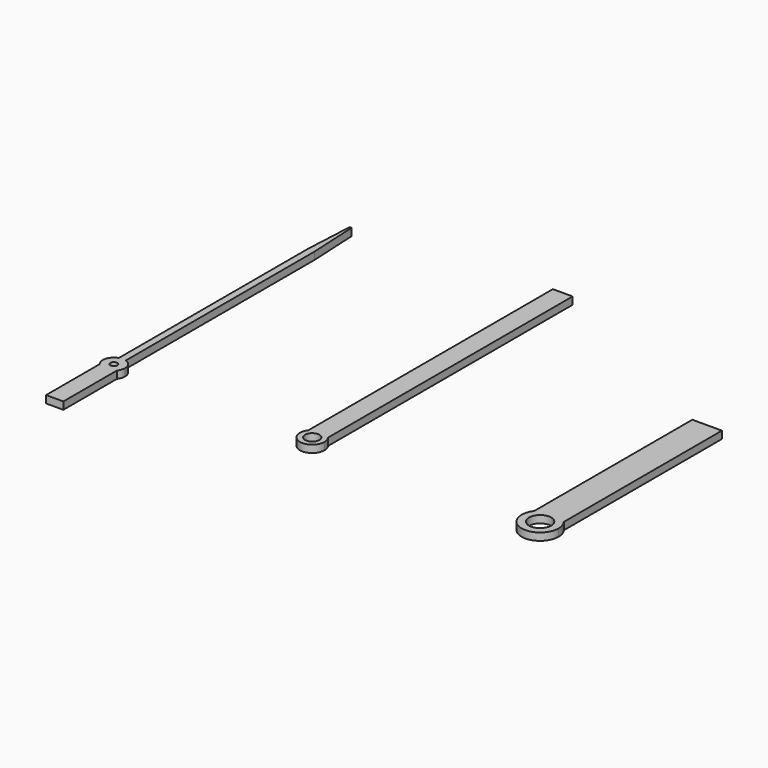
from build123d import *

# Parameters (mm, degrees)
F1_DEPTH = 3
F0_R     = 2.9
F0_R_2   = 4.5
F2_SIZE2 = 20
F2_SIZE  = 1


with BuildPart() as f1:
    # F0 (on Top) → F1 (new body)
    with BuildSketch(Plane.XY):
        with BuildLine():
            Line((-81.8503187537, 120), (-81.8503187537, 4.2766809561))
            ThreePointArc((-81.8503187537, 4.2766809561), (-80.4503187537, 4.5), (-79.0503187537, 4.2766809561))
            Line((-79.0503187537, 4.2766809561), (-79.0503187537, 120))
            Line((-79.0503187537, 120), (-81.8503187537, 120))
        make_face()
        with BuildLine():
            ThreePointArc((-76.9503187537, -2.8284271247), (-80.4503187537, -4.5), (-83.9503187537, -2.8284271247))
            Line((-83.9503187537, -2.8284271247), (-83.9503187537, -30))
            Line((-83.9503187537, -30), (-76.9503187537, -30))
            Line((-76.9503187537, -30), (-76.9503187537, -2.8284271247))
        make_face()
        with BuildLine():
            ThreePointArc((-76.9503187537, 0), (-80.4503187537, -3.5), (-83.9503187537, 0))
            Line((-83.9503187537, 0), (-83.9503187537, -2.8284271247))
            ThreePointArc((-83.9503187537, -2.8284271247), (-80.4503187537, -4.5), (-76.9503187537, -2.8284271247))
            Line((-76.9503187537, -2.8284271247), (-76.9503187537, 0))
        make_face()
        with BuildLine():
            Line((-79.0503187537, 4.2766809561), (-79.0503187537, 3.2078029865))
            ThreePointArc((-79.0503187537, 3.2078029865), (-77.5220086609, 1.9170289513), (-76.9503187537, 0))
            Line((-76.9503187537, 0), (-76.9503187537, -2.8284271247))
            ThreePointArc((-76.9503187537, -2.8284271247), (-76.2076780666, -1.5), (-75.9503187537, 0))
            ThreePointArc((-75.9503187537, 0), (-76.8068314133, 2.6410225292), (-79.0503187537, 4.2766809561))
        make_face()
        with BuildLine():
            ThreePointArc((-79.0503187537, 0), (-80.4503187537, -1.4), (-81.8503187537, 0))
            Line((-81.8503187537, 0), (-83.9503187537, 0))
            ThreePointArc((-83.9503187537, 0), (-80.4503187537, -3.5), (-76.9503187537, 0))
            Line((-76.9503187537, 0), (-79.0503187537, 0))
        make_face()
        with BuildLine():
            ThreePointArc((-83.9503187537, 0), (-83.3786288466, 1.9170289513), (-81.8503187537, 3.2078029865))
            Line((-81.8503187537, 3.2078029865), (-81.8503187537, 4.2766809561))
            ThreePointArc((-81.8503187537, 4.2766809561), (-84.7657724043, 1.2754841394), (-83.9503187537, -2.8284271247))
            Line((-83.9503187537, -2.8284271247), (-83.9503187537, 0))
        make_face()
        with BuildLine():
            Line((-81.8503187537, 4.2766809561), (-81.8503187537, 3.2078029865))
            ThreePointArc((-81.8503187537, 3.2078029865), (-80.4503187537, 3.5), (-79.0503187537, 3.2078029865))
            Line((-79.0503187537, 3.2078029865), (-79.0503187537, 4.2766809561))
            ThreePointArc((-79.0503187537, 4.2766809561), (-80.4503187537, 4.5), (-81.8503187537, 4.2766809561))
        make_face()
        with BuildLine():
            Line((-81.8503187537, 3.2078029865), (-81.8503187537, 0))
            ThreePointArc((-81.8503187537, 0), (-80.4503187537, 1.4), (-79.0503187537, 0))
            Line((-79.0503187537, 0), (-79.0503187537, 3.2078029865))
            ThreePointArc((-79.0503187537, 3.2078029865), (-80.4503187537, 3.5), (-81.8503187537, 3.2078029865))
        make_face()
        with BuildLine():
            Line((-79.0503187537, 3.2078029865), (-79.0503187537, 0))
            Line((-79.0503187537, 0), (-76.9503187537, 0))
            ThreePointArc((-76.9503187537, 0), (-77.5220086609, 1.9170289513), (-79.0503187537, 3.2078029865))
        make_face()
        with BuildLine():
            Line((-83.9503187537, 0), (-81.8503187537, 0))
            Line((-81.8503187537, 0), (-81.8503187537, 3.2078029865))
            ThreePointArc((-81.8503187537, 3.2078029865), (-83.3786288466, 1.9170289513), (-83.9503187537, 0))
        make_face()
    extrude(amount=F1_DEPTH)

    # F2
    f2_edges = [f1.edges().sort_by_distance(p)[0] for p in [
        (-79.050319, 120, 1.5),
        (-81.850319, 120, 1.5),
    ]]
    f2_side = f1.faces().sort_by_distance((-80.450319, 120, 1.5))[0]
    chamfer(f2_edges, length=F2_SIZE, length2=F2_SIZE2, reference=f2_side)


with BuildPart() as f1b:
    # F0 (on Top) → F1, piece 2 (new body)
    with BuildSketch(Plane.XY):
        with BuildLine():
            Line((4, 3), (4, 0))
            ThreePointArc((4, 0), (0, -4), (-4, 0))
            Line((-4, 0), (-4, 3))
            ThreePointArc((-4, 3), (-1.5811388301, -4.7434164903), (5, 0))
            ThreePointArc((5, 0), (4.7434164903, 1.5811388301), (4, 3))
        make_face()
        with BuildLine():
            ThreePointArc((-4, 0), (0, -4), (4, 0))
            ThreePointArc((4, 0), (0, 4), (-4, 0))
        make_face()
        Circle(F0_R, mode=Mode.SUBTRACT)
        with BuildLine():
            ThreePointArc((-4, 0), (0, 4), (4, 0))
            Line((4, 0), (4, 3))
            ThreePointArc((4, 3), (0, 5), (-4, 3))
            Line((-4, 3), (-4, 0))
        make_face()
        with BuildLine():
            ThreePointArc((-4, 3), (0, 5), (4, 3))
            Line((4, 3), (4, 127))
            Line((4, 127), (-4, 127))
            Line((-4, 127), (-4, 3))
        make_face()
    extrude(amount=F1_DEPTH)


with BuildPart() as f1c:
    # F0 (on Top) → F1, piece 3 (new body)
    with BuildSketch(Plane.XY):
        with BuildLine():
            ThreePointArc((86.4340859056, 4.5), (92.4340859056, 7.5), (98.4340859056, 4.5))
            Line((98.4340859056, 4.5), (98.4340859056, 84.6666666667))
            Line((98.4340859056, 84.6666666667), (86.4340859056, 84.6666666667))
            Line((86.4340859056, 84.6666666667), (86.4340859056, 4.5))
        make_face()
        with BuildLine():
            Line((98.4340859056, 0), (98.4340859056, 4.5))
            ThreePointArc((98.4340859056, 4.5), (92.4340859056, 7.5), (86.4340859056, 4.5))
            Line((86.4340859056, 4.5), (86.4340859056, 0))
            ThreePointArc((86.4340859056, 0), (92.4340859056, 6), (98.4340859056, 0))
        make_face()
        with BuildLine():
            ThreePointArc((86.4340859056, 0), (92.4340859056, -6), (98.4340859056, 0))
            ThreePointArc((98.4340859056, 0), (92.4340859056, 6), (86.4340859056, 0))
        make_face()
        with Locations((92.4340859056, 0)):
            Circle(F0_R_2, mode=Mode.SUBTRACT)
        with BuildLine():
            ThreePointArc((86.4340859056, 4.5), (90.0623776604, -7.1151247354), (99.9340859056, 0))
            ThreePointArc((99.9340859056, 0), (99.5492106409, 2.3717082451), (98.4340859056, 4.5))
            Line((98.4340859056, 4.5), (98.4340859056, 0))
            ThreePointArc((98.4340859056, 0), (92.4340859056, -6), (86.4340859056, 0))
            Line((86.4340859056, 0), (86.4340859056, 4.5))
        make_face()
    extrude(amount=F1_DEPTH)


solid = Compound([f1.part, f1b.part, f1c.part])
